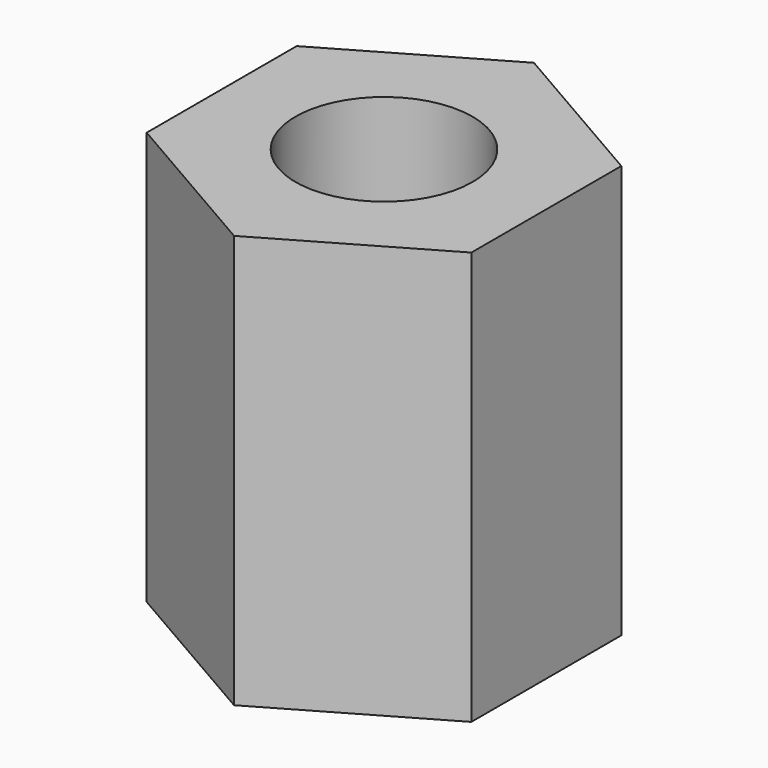
from build123d import *

# Parameters (mm, degrees)
F0_R     = 1.5
F1_DEPTH = 7
F2_DEPTH = 5


with BuildPart() as f1:
    # F0 (on Top) → F1 (new body)
    with BuildSketch(Plane.XY):
        Polygon((2.75, -1.587713), (2.75, 1.587713), (0, 3.175426), (-2.75, 1.587713), (-2.75, -1.587713), (0, -3.175426), align=None)
        Circle(F0_R, mode=Mode.SUBTRACT)
    extrude(amount=F1_DEPTH)

    # F0 (on Top) → F2 (cut)
    with BuildSketch(Plane.XY):
        Circle(F0_R)
    extrude(amount=F2_DEPTH, mode=Mode.SUBTRACT)


solid = f1.part
